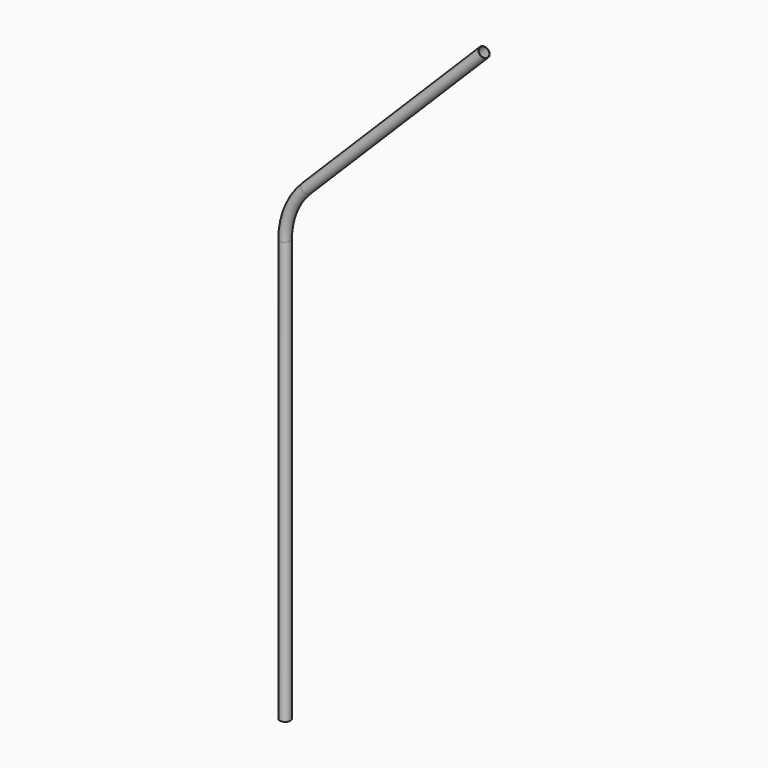
from build123d import *

# Parameters (mm, degrees)
F0_R = 22.098
F3_R = 20.6375


with BuildPart() as f2:
    # F2: sweep along a path in F1
    with BuildLine(Plane.XZ) as f2_path:
        Line((826.183563, 2705.783563), (89.273853, 1968.873853))
        ThreePointArc((89.273853, 1968.873853), (23.201518, 1869.989616), (0, 1753.347706))
        Line((0, 1753.347706), (0, 0))
    # F0 (on Top) → F2 (sweep)
    with BuildSketch(Plane.XY):
        Circle(F0_R)
    sweep(path=f2_path.line)

    # F4: sweep along a path in F1
    with BuildLine(Plane.XZ) as f4_path:
        Line((0, 0), (0, 1753.347706))
        ThreePointArc((0, 1753.347706), (23.201518, 1869.989616), (89.273853, 1968.873853))
        Line((89.273853, 1968.873853), (826.183563, 2705.783563))
    # F3 (on face) → F4 (sweep, cut)
    with BuildSketch(Plane.XY):
        Circle(F3_R)
    sweep(path=f4_path.line, mode=Mode.SUBTRACT)


solid = f2.part
